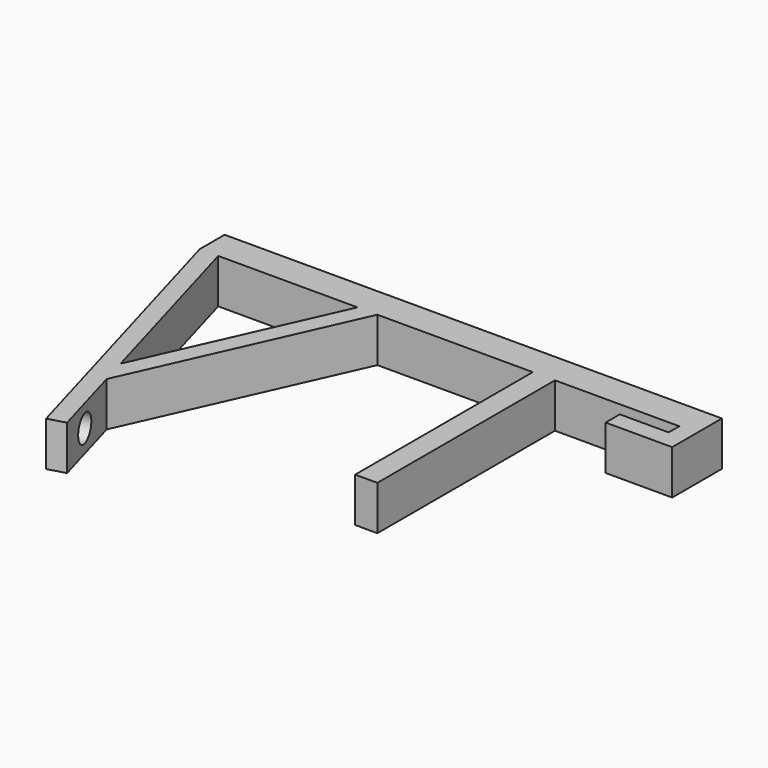
from build123d import *

# Parameters (mm, degrees)
F0_W     = 5
F0_H     = 50
F0_W_2   = 4
F0_H_2   = 3
F1_DEPTH = 10
F3_R     = 3
F4_DEPTH = 10


with BuildPart() as f1:
    # F0 (on Top) → F1 (new body)
    with BuildSketch(Plane.XY):
        with Locations((-2.5, -25)):
            Rectangle(F0_W, F0_H)
        Polygon((-5, 0), (0, 0), (0, 7), (-80, 7), (-80, 0), (-75.83991, 0), (-44.478558, 0), (-40, 0), align=None)
        Polygon((0, 7), (0, 0), (28, 0), (32, 0), (32, 7), align=None)
        with Locations((30, -1.5)):
            Rectangle(F0_W_2, F0_H_2)
        Polygon((-61.87452, -48.874639), (-40, 0), (-44.478558, 0), (-63.619636, -42.76726), align=None)
        Polygon((32, -3), (28, -3), (17, -3), (17, -7), (32, -7), align=None)
        Polygon((-56.921913, -66.207265), (-61.87452, -48.874639), (-63.619636, -42.76726), (-75.83991, 0), (-80, 0), (-60.767984, -67.306237), align=None)
    extrude(amount=F1_DEPTH)

    # F3 (on face) → F4 (cut)
    with BuildSketch(Plane(origin=(-73.961299, -21.133627, 0), x_dir=(0.274743, -0.961518, 0), z_dir=(-0.961518, -0.274743, 0))):
        with Locations((39.963152, 5.025908)):
            Circle(F3_R)
    extrude(amount=-F4_DEPTH, mode=Mode.SUBTRACT)


solid = f1.part
